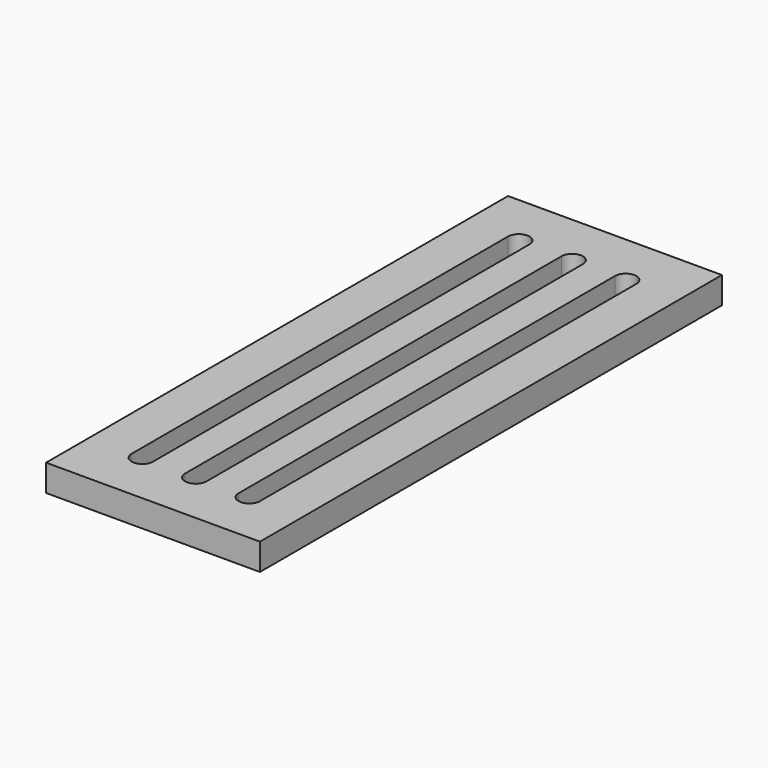
from build123d import *

# Parameters (mm, degrees)
F0_W     = 254
F0_H     = 685.8
F1_DEPTH = 31.75


with BuildPart() as f1:
    # F0 (on Top) → F1 (new body)
    with BuildSketch(Plane.XY):
        Rectangle(F0_W, F0_H)
        with BuildLine():
            ThreePointArc((-76.2, 279.4), (-63.5, 292.1), (-50.8, 279.4))
            Line((-50.8, 279.4), (-50.8, -279.4))
            ThreePointArc((-50.8, -279.4), (-63.5, -292.1), (-76.2, -279.4))
            Line((-76.2, -279.4), (-76.2, 279.4))
        make_face(mode=Mode.SUBTRACT)
        with BuildLine():
            ThreePointArc((-12.7, 279.4), (0, 292.1), (12.7, 279.4))
            Line((12.7, 279.4), (12.7, -279.4))
            ThreePointArc((12.7, -279.4), (0, -292.1), (-12.7, -279.4))
            Line((-12.7, -279.4), (-12.7, 279.4))
        make_face(mode=Mode.SUBTRACT)
        with BuildLine():
            ThreePointArc((50.8, 279.4), (63.5, 292.1), (76.2, 279.4))
            Line((76.2, 279.4), (76.2, -279.4))
            ThreePointArc((76.2, -279.4), (63.5, -292.1), (50.8, -279.4))
            Line((50.8, -279.4), (50.8, 279.4))
        make_face(mode=Mode.SUBTRACT)
    extrude(amount=F1_DEPTH)


solid = f1.part
